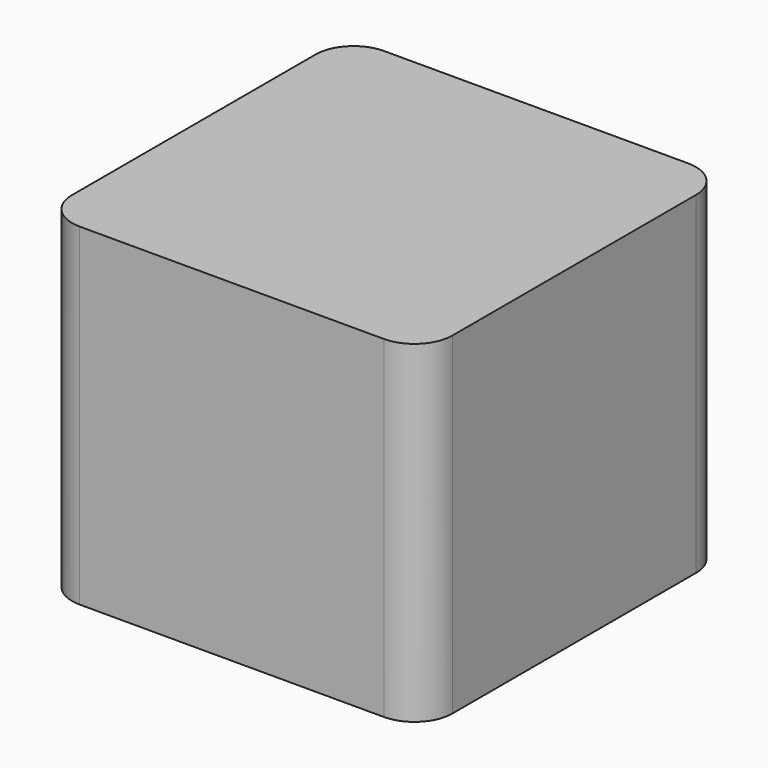
from build123d import *

# Parameters (mm, degrees)
F0_W     = 25.4
F0_H     = 25.4
F1_DEPTH = 22.225
F2_W     = 19.05
F2_H     = 19.05
F3_DEPTH = 15.875
F4_R     = 2.54


with BuildPart() as f1:
    # F0 (on Top) → F1 (new body)
    with BuildSketch(Plane.XY):
        with Locations((12.7, 12.7)):
            Rectangle(F0_W, F0_H)
    extrude(amount=F1_DEPTH)

    # F2 (on face) → F3 (cut)
    with BuildSketch(Plane(origin=(0, 0, 0), x_dir=(1, 0, 0), z_dir=(0, 0, -1))):
        with Locations((12.7, -12.7)):
            Rectangle(F2_W, F2_H)
    extrude(amount=-F3_DEPTH, mode=Mode.SUBTRACT)

    # F4
    f4_edges = [f1.edges().sort_by_distance(p)[0] for p in [
        (25.4, 0, 11.1125),
        (25.4, 25.4, 11.1125),
        (0, 25.4, 11.1125),
        (0, 0, 11.1125),
    ]]
    fillet(f4_edges, radius=F4_R)


solid = f1.part
